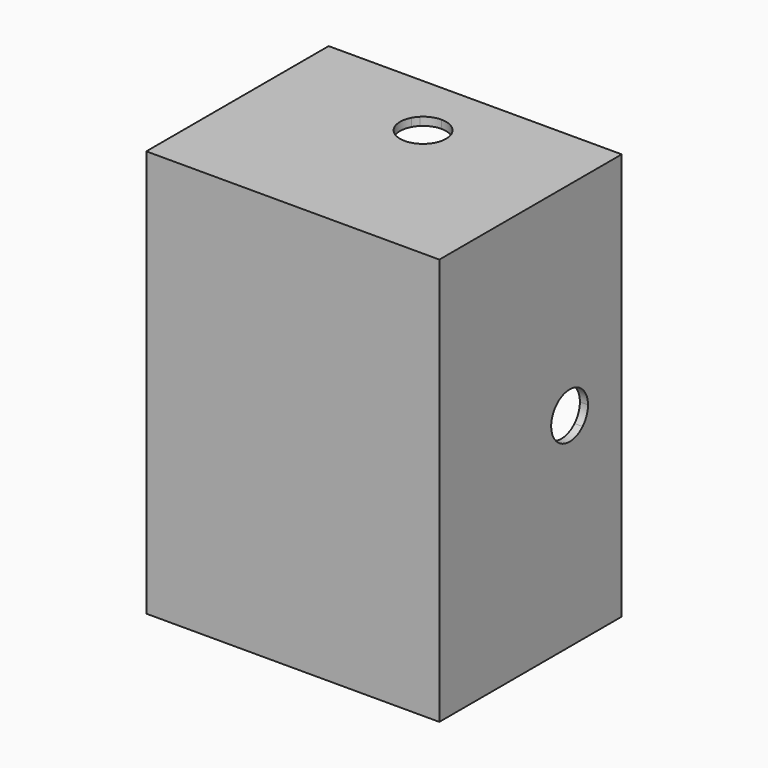
from build123d import *

# Parameters (mm, degrees)
F2_DEPTH      = 25
F2_DEPTH_BACK = 25
F3_DEPTH      = 25
F3_DEPTH_BACK = 25
F4_DEPTH      = 24
F4_DEPTH_BACK = 24
F1_W          = 4
F1_H          = 4
F5_DEPTH      = 25
F5_DEPTH_BACK = 25


with BuildPart() as f2:
    # F0 (on Top) → F2 (new body, two sides)
    with BuildSketch(Plane.XY) as f2_sk:
        Polygon((-17, 0), (-17, 8), (-18, 8), (-18, -20), (18, -20), (18, 8), (17, 8), (17, 0), (17, -19), (-17, -19), align=None)
    extrude(amount=F2_DEPTH)
    extrude(f2_sk.sketch, amount=-F2_DEPTH_BACK)

    # F0 (on Top) → F3 (join, two sides)
    with BuildSketch(Plane.XY) as f3_sk:
        with BuildLine():
            ThreePointArc((17, 0), (0, -17), (-17, 0))
            Line((-17, 0), (-17, -19))
            Line((-17, -19), (17, -19))
            Line((17, -19), (17, 0))
        make_face()
        with BuildLine():
            ThreePointArc((15, 0), (10.6066017178, -10.6066017178), (0, -15))
            ThreePointArc((0, -15), (-13.1339255366, -7.2456883731), (-12.6885775404, 8))
            Line((-12.6885775404, 8), (-15, 8))
            ThreePointArc((-15, 8), (-16.4924225025, 4.1231056256), (-17, 0))
            ThreePointArc((-17, 0), (0, -17), (17, 0))
            ThreePointArc((17, 0), (16.4924225025, 4.1231056256), (15, 8))
            Line((15, 8), (12.6885775404, 8))
            ThreePointArc((12.6885775404, 8), (14.4105631935, 4.1636124275), (15, 0))
        make_face()
        with BuildLine():
            ThreePointArc((-12.6885775404, 8), (-13.1339255366, -7.2456883731), (0, -15))
            Line((0, -15), (0, -7.5))
            Line((0, -7.5), (-2.5, -7.5))
            Line((-2.5, -7.5), (-2.5, -1.3228756555))
            ThreePointArc((-2.5, -1.3228756555), (-2.8284271247, 0), (-2.5, 1.3228756555))
            Line((-2.5, 1.3228756555), (-2.5, 7.5))
            Line((-2.5, 7.5), (0, 7.5))
            Line((0, 7.5), (0, 8))
            Line((0, 8), (-12.6885775404, 8))
        make_face()
        with BuildLine():
            Line((0, -7.5), (0, -15))
            ThreePointArc((0, -15), (10.6066017178, -10.6066017178), (15, 0))
            ThreePointArc((15, 0), (14.4105631935, 4.1636124275), (12.6885775404, 8))
            Line((12.6885775404, 8), (0, 8))
            Line((0, 8), (0, 7.5))
            Line((0, 7.5), (2.5, 7.5))
            Line((2.5, 7.5), (2.5, 1.3228756555))
            ThreePointArc((2.5, 1.3228756555), (2.7450926953, 0.6815174936), (2.8284271247, 0))
            ThreePointArc((2.8284271247, 0), (2.7450926953, -0.6815174936), (2.5, -1.3228756555))
            Line((2.5, -1.3228756555), (2.5, -7.5))
            Line((2.5, -7.5), (0, -7.5))
        make_face()
        with BuildLine():
            ThreePointArc((-17, 0), (-16.4924225025, 4.1231056256), (-15, 8))
            Line((-15, 8), (-17, 8))
            Line((-17, 8), (-17, 0))
        make_face()
        with BuildLine():
            Line((17, 8), (15, 8))
            ThreePointArc((15, 8), (16.4924225025, 4.1231056256), (17, 0))
            Line((17, 0), (17, 8))
        make_face()
        with BuildLine():
            Line((0, 2.8284271247), (0, 7.5))
            Line((0, 7.5), (-2.5, 7.5))
            Line((-2.5, 7.5), (-2.5, 1.3228756555))
            ThreePointArc((-2.5, 1.3228756555), (-2.2753295024, 1.6801415582), (-2, 2))
            ThreePointArc((-2, 2), (-1.0823922003, 2.6131259298), (0, 2.8284271247))
        make_face()
        with BuildLine():
            Line((2.5, 7.5), (0, 7.5))
            Line((0, 7.5), (0, 2.8284271247))
            ThreePointArc((0, 2.8284271247), (1.0823922003, 2.6131259298), (2, 2))
            ThreePointArc((2, 2), (2.2753295024, 1.6801415582), (2.5, 1.3228756555))
            Line((2.5, 1.3228756555), (2.5, 7.5))
        make_face()
        with BuildLine():
            Line((0, -2.8284271247), (0, -7.5))
            Line((0, -7.5), (2.5, -7.5))
            Line((2.5, -7.5), (2.5, -1.3228756555))
            ThreePointArc((2.5, -1.3228756555), (2.2753295024, -1.6801415582), (2, -2))
            ThreePointArc((2, -2), (1.0823922003, -2.6131259298), (0, -2.8284271247))
        make_face()
        with BuildLine():
            Line((-2.5, -7.5), (0, -7.5))
            Line((0, -7.5), (0, -2.8284271247))
            ThreePointArc((0, -2.8284271247), (-1.0823922003, -2.6131259298), (-2, -2))
            ThreePointArc((-2, -2), (-2.2753295024, -1.6801415582), (-2.5, -1.3228756555))
            Line((-2.5, -1.3228756555), (-2.5, -7.5))
        make_face()
    extrude(amount=F3_DEPTH)
    extrude(f3_sk.sketch, amount=-F3_DEPTH_BACK)

    # F0 (on Top) → F4 (cut, two sides)
    with BuildSketch(Plane.XY) as f4_sk:
        with BuildLine():
            ThreePointArc((17, 0), (0, -17), (-17, 0))
            Line((-17, 0), (-17, -19))
            Line((-17, -19), (17, -19))
            Line((17, -19), (17, 0))
        make_face()
        with BuildLine():
            Line((0, -7.5), (0, -15))
            ThreePointArc((0, -15), (10.6066017178, -10.6066017178), (15, 0))
            ThreePointArc((15, 0), (14.4105631935, 4.1636124275), (12.6885775404, 8))
            Line((12.6885775404, 8), (0, 8))
            Line((0, 8), (0, 7.5))
            Line((0, 7.5), (2.5, 7.5))
            Line((2.5, 7.5), (2.5, 1.3228756555))
            ThreePointArc((2.5, 1.3228756555), (2.7450926953, 0.6815174936), (2.8284271247, 0))
            ThreePointArc((2.8284271247, 0), (2.7450926953, -0.6815174936), (2.5, -1.3228756555))
            Line((2.5, -1.3228756555), (2.5, -7.5))
            Line((2.5, -7.5), (0, -7.5))
        make_face()
        with BuildLine():
            ThreePointArc((15, 0), (10.6066017178, -10.6066017178), (0, -15))
            ThreePointArc((0, -15), (-13.1339255366, -7.2456883731), (-12.6885775404, 8))
            Line((-12.6885775404, 8), (-15, 8))
            ThreePointArc((-15, 8), (-16.4924225025, 4.1231056256), (-17, 0))
            ThreePointArc((-17, 0), (0, -17), (17, 0))
            ThreePointArc((17, 0), (16.4924225025, 4.1231056256), (15, 8))
            Line((15, 8), (12.6885775404, 8))
            ThreePointArc((12.6885775404, 8), (14.4105631935, 4.1636124275), (15, 0))
        make_face()
        with BuildLine():
            ThreePointArc((-12.6885775404, 8), (-13.1339255366, -7.2456883731), (0, -15))
            Line((0, -15), (0, -7.5))
            Line((0, -7.5), (-2.5, -7.5))
            Line((-2.5, -7.5), (-2.5, -1.3228756555))
            ThreePointArc((-2.5, -1.3228756555), (-2.8284271247, 0), (-2.5, 1.3228756555))
            Line((-2.5, 1.3228756555), (-2.5, 7.5))
            Line((-2.5, 7.5), (0, 7.5))
            Line((0, 7.5), (0, 8))
            Line((0, 8), (-12.6885775404, 8))
        make_face()
        with BuildLine():
            ThreePointArc((-17, 0), (-16.4924225025, 4.1231056256), (-15, 8))
            Line((-15, 8), (-17, 8))
            Line((-17, 8), (-17, 0))
        make_face()
        with BuildLine():
            Line((17, 8), (15, 8))
            ThreePointArc((15, 8), (16.4924225025, 4.1231056256), (17, 0))
            Line((17, 0), (17, 8))
        make_face()
        with BuildLine():
            Line((-2.5, -7.5), (0, -7.5))
            Line((0, -7.5), (0, -2.8284271247))
            ThreePointArc((0, -2.8284271247), (-1.0823922003, -2.6131259298), (-2, -2))
            ThreePointArc((-2, -2), (-2.2753295024, -1.6801415582), (-2.5, -1.3228756555))
            Line((-2.5, -1.3228756555), (-2.5, -7.5))
        make_face()
        with BuildLine():
            Line((0, -2.8284271247), (0, -7.5))
            Line((0, -7.5), (2.5, -7.5))
            Line((2.5, -7.5), (2.5, -1.3228756555))
            ThreePointArc((2.5, -1.3228756555), (2.2753295024, -1.6801415582), (2, -2))
            ThreePointArc((2, -2), (1.0823922003, -2.6131259298), (0, -2.8284271247))
        make_face()
        with BuildLine():
            Line((0, 2.8284271247), (0, 7.5))
            Line((0, 7.5), (-2.5, 7.5))
            Line((-2.5, 7.5), (-2.5, 1.3228756555))
            ThreePointArc((-2.5, 1.3228756555), (-2.2753295024, 1.6801415582), (-2, 2))
            ThreePointArc((-2, 2), (-1.0823922003, 2.6131259298), (0, 2.8284271247))
        make_face()
        with BuildLine():
            Line((2.5, 7.5), (0, 7.5))
            Line((0, 7.5), (0, 2.8284271247))
            ThreePointArc((0, 2.8284271247), (1.0823922003, 2.6131259298), (2, 2))
            ThreePointArc((2, 2), (2.2753295024, 1.6801415582), (2.5, 1.3228756555))
            Line((2.5, 1.3228756555), (2.5, 7.5))
        make_face()
    extrude(amount=F4_DEPTH, mode=Mode.SUBTRACT)
    extrude(f4_sk.sketch, amount=-F4_DEPTH_BACK, mode=Mode.SUBTRACT)

    # F1 (on Right) → F5 (cut, two sides)
    with BuildSketch(Plane.YZ) as f5_sk:
        with BuildLine():
            ThreePointArc((-2, -2), (0, -2.8284271247), (2, -2))
            Line((2, -2), (-2, -2))
        make_face()
        Rectangle(F1_W, F1_H)
        with BuildLine():
            Line((-2, 2), (2, 2))
            ThreePointArc((2, 2), (0, 2.8284271247), (-2, 2))
        make_face()
        with BuildLine():
            ThreePointArc((2.8284271247, 0), (2.6131259298, 1.0823922003), (2, 2))
            Line((2, 2), (2, -2))
            ThreePointArc((2, -2), (2.6131259298, -1.0823922003), (2.8284271247, 0))
        make_face()
        with BuildLine():
            Line((-2, -2), (-2, 2))
            ThreePointArc((-2, 2), (-2.8284271247, 0), (-2, -2))
        make_face()
    extrude(amount=-F5_DEPTH, mode=Mode.SUBTRACT)
    extrude(f5_sk.sketch, amount=F5_DEPTH_BACK, mode=Mode.SUBTRACT)


solid = f2.part
